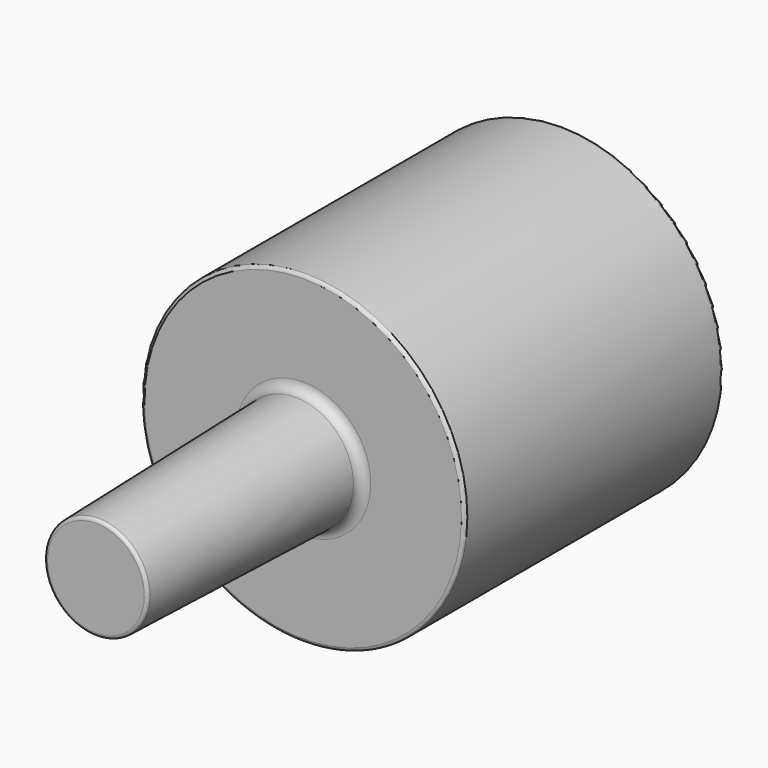
from build123d import *

# Parameters (mm, degrees)
F2_R = 0.762
F3_R = 0.254


with BuildPart() as f1:
    # F0 (on Right) → F1 (revolve)
    with BuildSketch(Plane.YZ):
        Polygon((-20.32, 0), (25.4, 0), (25.4, 12.7), (0, 12.7), (0, 4.572), (-20.32, 4.043167), align=None)
    revolve(axis=Axis((0, 2.54, 0), (0, 1, 0)))

    # F2
    f2_edges = [f1.edges().sort_by_distance(p)[0] for p in [
        (0, 0, -4.572),
    ]]
    fillet(f2_edges, radius=F2_R)

    # F3
    f3_edges = [f1.edges().sort_by_distance(p)[0] for p in [
        (0, 0, -12.7),
        (0, 25.4, -12.7),
        (0, -20.32, -4.043167),
    ]]
    fillet(f3_edges, radius=F3_R)


solid = f1.part
